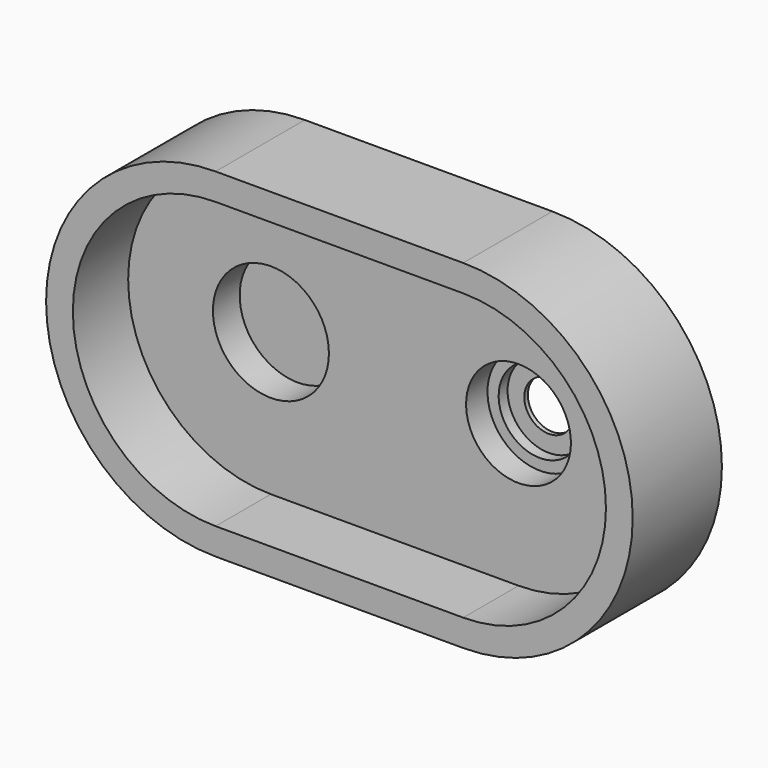
from build123d import *

# Parameters (mm, degrees)
F1_DEPTH = 50
F4_DEPTH = 31
F5_R     = 26
F6_DEPTH = 15


with BuildPart() as f1:
    # F0 (on Front) → F1 (new body)
    with BuildSketch(Plane.XZ):
        with BuildLine():
            Line((111, 76), (0, 76))
            ThreePointArc((0, 76), (-76, 0), (0, -76))
            ThreePointArc((0, -76), (30.2492433933, -69.7207521053), (55.5, -51.9206124771))
            ThreePointArc((55.5, -51.9206124771), (80.7507566067, -69.7207521053), (111, -76))
            ThreePointArc((111, -76), (187, 0), (111, 76))
        make_face()
        with BuildLine():
            ThreePointArc((55.5, -51.9206124771), (30.2492433933, -69.7207521053), (0, -76))
            Line((0, -76), (111, -76))
            ThreePointArc((111, -76), (80.7507566067, -69.7207521053), (55.5, -51.9206124771))
        make_face()
        with BuildLine():
            Line((111, 76), (0, 76))
            ThreePointArc((0, 76), (-76, 0), (0, -76))
            ThreePointArc((0, -76), (30.2492433933, -69.7207521053), (55.5, -51.9206124771))
            ThreePointArc((55.5, -51.9206124771), (80.7507566067, -69.7207521053), (111, -76))
            ThreePointArc((111, -76), (187, 0), (111, 76))
        make_face()
    extrude(amount=F1_DEPTH)

    # F3 (on offset) → F4 (cut)
    with BuildSketch(Plane.XZ.offset(50)):
        with BuildLine():
            Line((111, 64), (0, 64))
            ThreePointArc((0, 64), (-64, 0), (0, -64))
            Line((0, -64), (111, -64))
            ThreePointArc((111, -64), (175, 0), (111, 64))
        make_face()
        with BuildLine():
            Line((111, 64), (0, 64))
            ThreePointArc((0, 64), (-64, 0), (0, -64))
            Line((0, -64), (111, -64))
            ThreePointArc((111, -64), (175, 0), (111, 64))
        make_face()
    extrude(amount=-F4_DEPTH, mode=Mode.SUBTRACT)

    # F5 (on face) → F6 (cut)
    with BuildSketch(Plane.XZ.offset(19)):
        Circle(F5_R)
    extrude(amount=-F6_DEPTH, mode=Mode.SUBTRACT)

    # F8 (on offset) → F9 (revolve, cut)
    with BuildSketch(Plane.YZ.offset(111)):
        Polygon((-7, 23.5), (-19, 23.5), (-19, 0), (0, 0), (0, 11), (-2, 11), (-2, 18.5), (-7, 18.5), align=None)
    revolve(axis=Axis((111, -16.0990557633, 0), (0, 1, 0)), mode=Mode.SUBTRACT)


solid = f1.part
